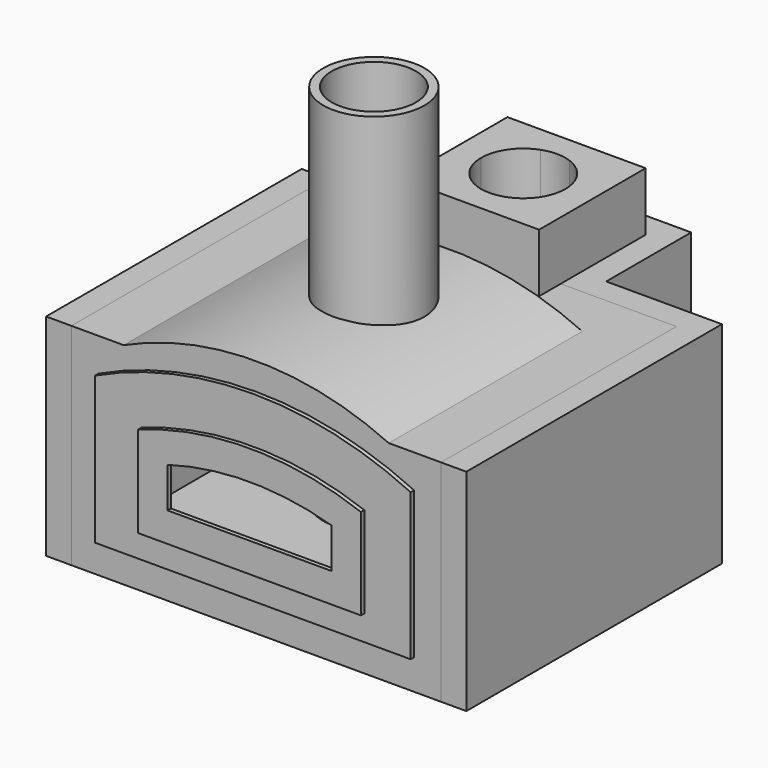
from build123d import *

# Parameters (mm, degrees)
F1_DEPTH  = 132
F3_DEPTH  = 368
F5_DEPTH  = 574
F7_DEPTH  = 200
F9_DEPTH  = 139
F10_R     = 120
F10_R_2   = 100
F11_DEPTH = 1000
F13_DEPTH = 500
F15_DEPTH = 10
F17_DEPTH = 10


with BuildPart() as f1:
    # F0 (on Top) → F1 (new body)
    with BuildSketch(Plane.XY):
        Polygon((-438.5, -349), (438.5, -349), (438.5, 349), (164, 349), (164, 601), (-164, 601), (-164, 349), (-438.5, 349), align=None)
    extrude(amount=F1_DEPTH)

    # F2 (on face) → F3 (join)
    with BuildSketch(Plane.XY.offset(132)):
        Polygon((314.5, 225), (314.5, -349), (438.5, -349), (438.5, 349), (164, 349), (164, 601), (-164, 601), (-164, 349), (-438.5, 349), (-438.5, -349), (-314.5, -349), (-314.5, 225), (-100, 225), (-100, 537), (100, 537), (100, 225), align=None)
    extrude(amount=F3_DEPTH)

    # F4 (on face) → F5 (join, through all)
    with BuildSketch(Plane.XZ.offset(349)):
        with BuildLine():
            ThreePointArc((-314.5, 382), (0, 445), (314.5, 382))
            Line((314.5, 382), (314.5, 500))
            ThreePointArc((314.5, 500), (0, 569), (-314.5, 500))
            Line((-314.5, 500), (-314.5, 382))
        make_face()
    extrude(amount=-F5_DEPTH)

    # F6 (on face) → F7 (join, through all)
    with BuildSketch(Plane.YZ.offset(-100)):
        Polygon((349, 500), (225, 500), (225, 438.8531788005), (225, 300), (349, 300), align=None)
    extrude(amount=F7_DEPTH)

    # F8 (on face) → F9 (join)
    with BuildSketch(Plane.XY.offset(500)):
        Polygon((164, 601), (-164, 601), (-164, 349), (-164, 285), (164, 285), (164, 349), align=None)
        with BuildLine():
            Line((100, 537), (100, 443))
            Line((100, 443), (100, 349))
            Line((100, 349), (34.1174442185, 349))
            ThreePointArc((34.1174442185, 349), (0, 343), (-34.1174442185, 349))
            Line((-34.1174442185, 349), (-100, 349))
            Line((-100, 349), (-100, 443))
            Line((-100, 443), (-100, 537))
            Line((-100, 537), (-34.1174442185, 537))
            ThreePointArc((-34.1174442185, 537), (0, 543), (34.1174442185, 537))
            Line((34.1174442185, 537), (100, 537))
        make_face(mode=Mode.SUBTRACT)
        with BuildLine():
            ThreePointArc((-100, 443), (-81.8893900998, 500.394492672), (-34.1174442185, 537))
            Line((-34.1174442185, 537), (-100, 537))
            Line((-100, 537), (-100, 443))
        make_face()
        with BuildLine():
            Line((100, 349), (100, 443))
            ThreePointArc((100, 443), (81.8893900998, 385.605507328), (34.1174442185, 349))
            Line((34.1174442185, 349), (100, 349))
        make_face()
        with BuildLine():
            ThreePointArc((34.1174442185, 537), (81.8893900998, 500.394492672), (100, 443))
            Line((100, 443), (100, 537))
            Line((100, 537), (34.1174442185, 537))
        make_face()
        with BuildLine():
            Line((-100, 349), (-34.1174442185, 349))
            ThreePointArc((-34.1174442185, 349), (-81.8893900998, 385.605507328), (-100, 443))
            Line((-100, 443), (-100, 349))
        make_face()
    extrude(amount=F9_DEPTH)


with BuildPart() as f11:
    # F10 (on Top) → F11 (new body)
    with BuildSketch(Plane.XY):
        Circle(F10_R)
        Circle(F10_R_2, mode=Mode.SUBTRACT)
    extrude(amount=F11_DEPTH)


with BuildPart() as f13:
    # F12 (on face) → F13 (new body)
    with BuildSketch(Plane(origin=(0, 0, 0), x_dir=(1, 0, 0), z_dir=(0, 0, -1))):
        Polygon((498.5, -409), (498.5, 349), (438.5, 349), (438.5, -349), (164, -349), (164, -601), (-164, -601), (-164, -349), (-438.5, -349), (-438.5, 349), (-498.5, 349), (-498.5, -409), (-224, -409), (-224, -661), (224, -661), (224, -409), align=None)
    extrude(amount=-F13_DEPTH)


with BuildPart() as f15:
    # F14 (on face) → F15 (new body)
    with BuildSketch(Plane.XZ.offset(349)):
        with BuildLine():
            Line((374.5, 72), (374.5, 420.9659825307))
            ThreePointArc((374.5, 420.9659825307), (0, 505), (-374.5, 420.9659825307))
            Line((-374.5, 420.9659825307), (-374.5, 72))
            Line((-374.5, 72), (374.5, 72))
        make_face()
        with BuildLine():
            Line((264.5, 132), (-264.5, 132))
            Line((-264.5, 132), (-314.5, 132))
            Line((-314.5, 132), (-314.5, 382))
            ThreePointArc((-314.5, 382), (0, 445), (314.5, 382))
            Line((314.5, 382), (314.5, 132))
            Line((314.5, 132), (264.5, 132))
        make_face(mode=Mode.SUBTRACT)
        with BuildLine():
            Line((-264.5, 132), (-264.5, 347.9179500357))
            ThreePointArc((-264.5, 347.9179500357), (0, 395), (264.5, 347.9179500357))
            Line((264.5, 347.9179500357), (264.5, 132))
            Line((264.5, 132), (314.5, 132))
            Line((314.5, 132), (314.5, 382))
            ThreePointArc((314.5, 382), (0, 445), (-314.5, 382))
            Line((-314.5, 382), (-314.5, 132))
            Line((-314.5, 132), (-264.5, 132))
        make_face()
    extrude(amount=F15_DEPTH)


with BuildPart() as f17:
    # F16 (on face) → F17 (new body)
    with BuildSketch(Plane.XZ.offset(359)):
        with BuildLine():
            Line((-264.5, 132), (264.5, 132))
            Line((264.5, 132), (264.5, 347.9179500357))
            ThreePointArc((264.5, 347.9179500357), (0, 395), (-264.5, 347.9179500357))
            Line((-264.5, 347.9179500357), (-264.5, 132))
        make_face()
        with BuildLine():
            ThreePointArc((-194.5, 297.2915295174), (0, 325), (194.5, 297.2915295174))
            Line((194.5, 297.2915295174), (194.5, 202))
            Line((194.5, 202), (-194.5, 202))
            Line((-194.5, 202), (-194.5, 297.2915295174))
        make_face(mode=Mode.SUBTRACT)
    extrude(amount=F17_DEPTH)


solid = Compound([f1.part, f11.part, f13.part, f15.part, f17.part])
